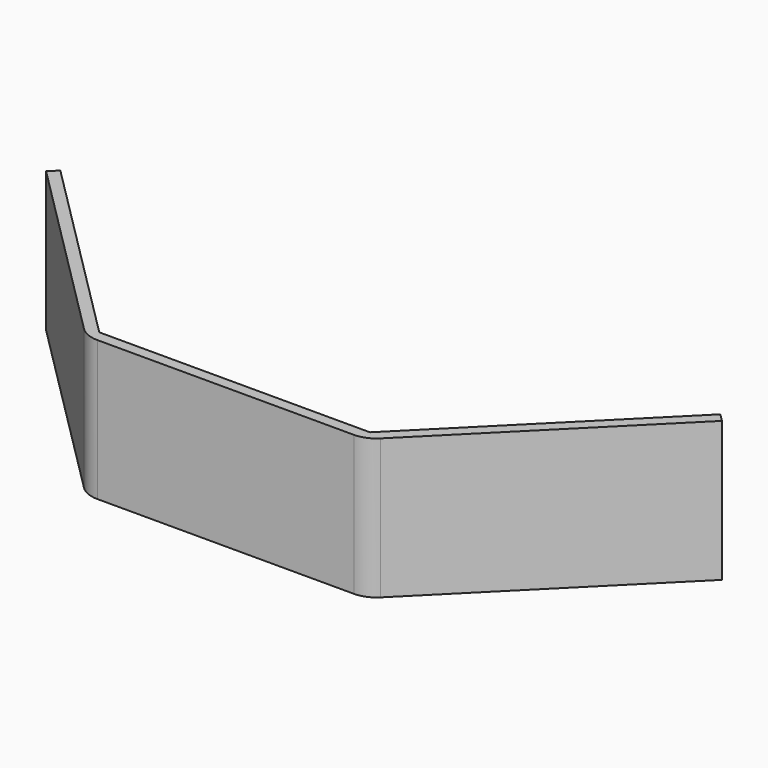
from build123d import *

# Parameters (mm, degrees)
F1_DEPTH = 25


with BuildPart() as f1:
    # F0 (on Top) → F1 (new body)
    with BuildSketch(Plane.XY):
        with BuildLine():
            Line((-58.941478, 1.414227), (-60.355678, 0))
            Line((-60.355678, 0), (-26.46446, -33.890568))
            ThreePointArc((-26.46446, -33.890568), (-24.842355, -34.974407), (-22.92896, -35.355))
            Line((-22.92896, -35.355), (22.92896, -35.355))
            ThreePointArc((22.92896, -35.355), (24.842355, -34.974407), (26.46446, -33.890568))
            Line((26.46446, -33.890568), (60.355678, 0))
            Line((60.355678, 0), (58.941478, 1.414227))
            Line((58.941478, 1.414227), (24.171584, -33.355))
            Line((24.171584, -33.355), (-24.171584, -33.355))
            Line((-24.171584, -33.355), (-58.941478, 1.414227))
        make_face()
    extrude(amount=F1_DEPTH)


solid = f1.part
